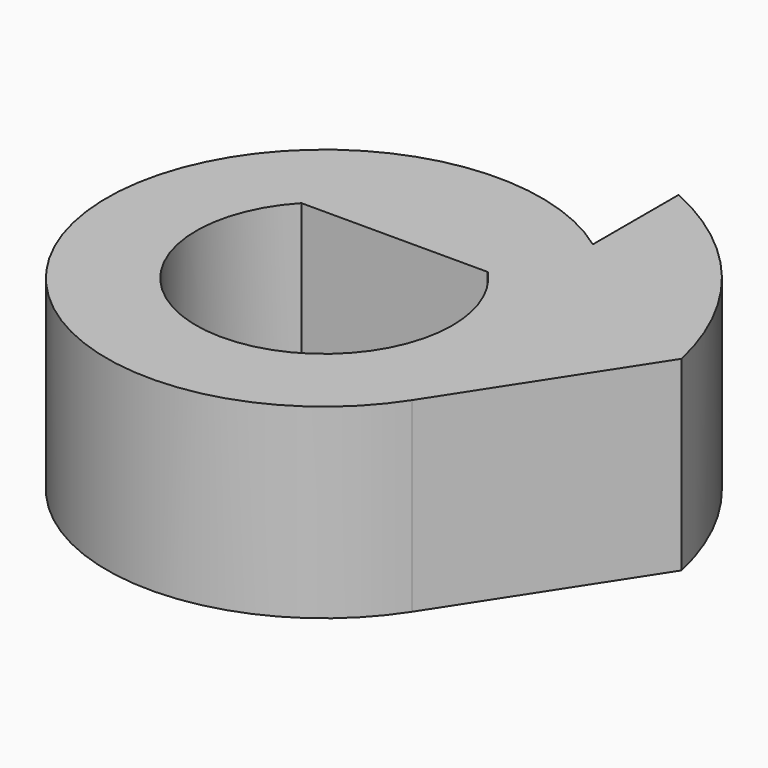
from build123d import *

# Parameters (mm, degrees)
F1_DEPTH = 6


with BuildPart() as f1:
    # F0 (on Top) → F1 (new body)
    with BuildSketch(Plane.XY):
        with BuildLine():
            ThreePointArc((-4.125, 5.655473), (-4.812056, -5.083711), (5.873261, -3.808517))
            ThreePointArc((5.873261, -3.808517), (6.712408, -1.985846), (7, 0))
            ThreePointArc((7, 0), (6.239992, 3.172144), (4.125, 5.655473))
            ThreePointArc((4.125, 5.655473), (0, 7), (-4.125, 5.655473))
        make_face()
        with BuildLine():
            ThreePointArc((3, 2.831188), (3.833447, 1.523257), (4.125, 0))
            ThreePointArc((4.125, 0), (-1.523257, -3.833447), (-3, 2.831188))
            ThreePointArc((-3, 2.831188), (0, 4.125), (3, 2.831188))
        make_face(mode=Mode.SUBTRACT)
        with BuildLine():
            Line((-3, 2.831188), (3, 2.831188))
            ThreePointArc((3, 2.831188), (0, 4.125), (-3, 2.831188))
        make_face()
        with BuildLine():
            Line((5.873261, -3.808517), (9.758726, 2.183408))
            ThreePointArc((9.758726, 2.183408), (7.757732, 6.310118), (4.125, 9.109576))
            Line((4.125, 9.109576), (4.125, 5.655473))
            ThreePointArc((4.125, 5.655473), (6.239992, 3.172144), (7, 0))
            ThreePointArc((7, 0), (6.712408, -1.985846), (5.873261, -3.808517))
        make_face()
    extrude(amount=F1_DEPTH)


solid = f1.part
